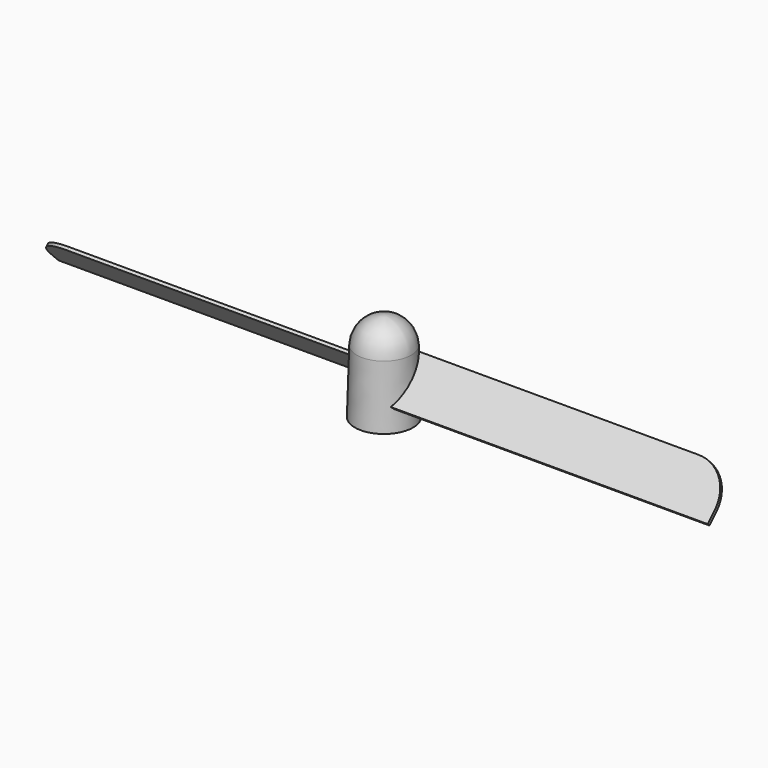
from build123d import *

# Parameters (mm, degrees)
F1_DEPTH = 27.5
F2_R     = 3
F5_COUNT = 2
F6_R     = 0.5
F7_DEPTH = 3


with BuildPart() as f1:
    # F0 (on Right) → F1 (new body)
    with BuildSketch(Plane.YZ):
        Polygon((1.325824, 1.502603), (-1.502602, -1.325825), (-1.325825, -1.502602), (1.502601, 1.325827), align=None)
    extrude(amount=F1_DEPTH)

    # F2
    f2_edges = [f1.edges().sort_by_distance(p)[0] for p in [
        (27.5, 1.414212, 1.414215),
    ]]
    fillet(f2_edges, radius=F2_R)

    # F3 (on Front) → F4 (revolve)
    with BuildSketch(Plane.XZ):
        with BuildLine():
            Line((2.359792, -3.211392), (2.209123, 1.92127))
            ThreePointArc((2.209123, 1.92127), (1.53966, 3.441941), (0, 4.066495))
            Line((0, 4.066495), (0, -3.211392))
            Line((0, -3.211392), (2.359792, -3.211392))
        make_face()
    revolve(axis=Axis((0, 0, 0.427552), (0, 0, 1)))

    # F5: F1 ×2 about axis
    f5_axis = Axis((0, 0, -3.211392), (0, 0, 1))


with BuildPart() as f1_1:
    add(f1.part)
    for i in range(1, F5_COUNT):
        add(f1.part.rotate(f5_axis, i * 360 / F5_COUNT))

    # F6 (on face) → F7 (cut)
    with BuildSketch(Plane(origin=(0, 0, -3.211392), x_dir=(1, 0, 0), z_dir=(0, 0, -1))):
        Circle(F6_R)
    extrude(amount=-F7_DEPTH, mode=Mode.SUBTRACT)


solid = f1_1.part
